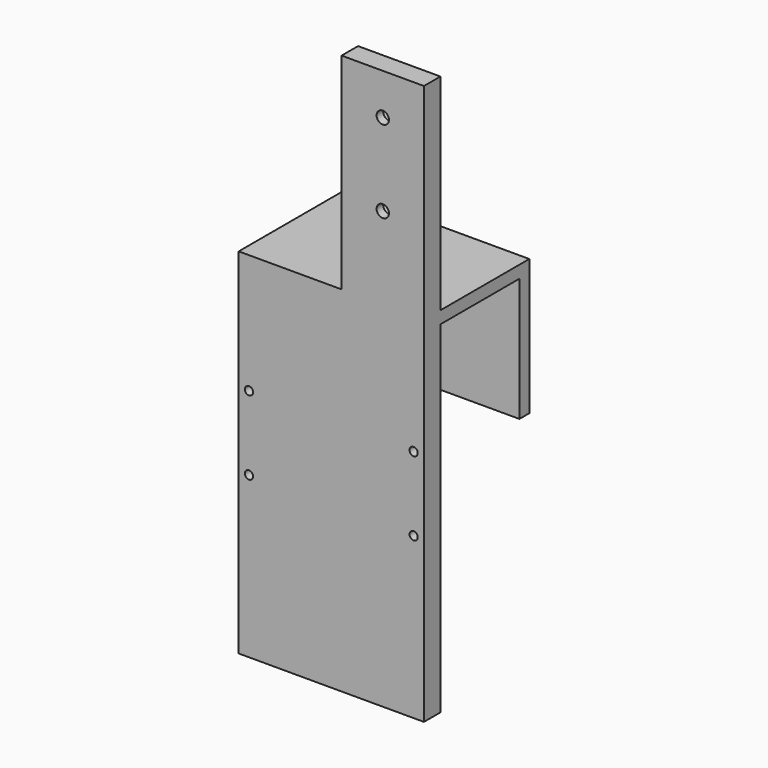
from build123d import *

# Parameters (mm, degrees)
PAD_DEPTH       = 45
SKETCH001_R     = 1
POCKET_DEPTH    = 5
SKETCH002_R     = 0.825
POCKET001_DEPTH = 10
SKETCH004_R     = 1.5
POCKET003_DEPTH = 5
SKETCH005_W     = 50
SKETCH005_H     = 25
POCKET004_DEPTH = 5
SKETCH006_R     = 2
POCKET005_DEPTH = 2
SKETCH007_R     = 3
POCKET006_DEPTH = 3


with BuildPart() as part:
    # Sketch → Pad (new body)
    with BuildSketch(Plane.YZ):
        Polygon((0, 0), (0, 83), (24, 83), (24, 53), (27, 53), (27, 86), (0, 86), (0, 136), (-5, 136), (-5, 0), align=None)
    extrude(amount=PAD_DEPTH)

    # Sketch001 (on Face1 of Pad) → Pocket (cut)
    with BuildSketch(Plane(origin=(0, -5, 0), x_dir=(0, 0, -1), z_dir=(0, -1, 0))):
        with Locations((-57, 42.5)):
            Circle(SKETCH001_R)
        with Locations((-39, 42.5)):
            Circle(SKETCH001_R)
        with Locations((-57, 2.5)):
            Circle(SKETCH001_R)
        with Locations((-39, 2.5)):
            Circle(SKETCH001_R)
    extrude(amount=-POCKET_DEPTH, mode=Mode.SUBTRACT)

    # Sketch002 (on Face5 of Pocket) → Pocket001 (cut)
    with BuildSketch(Plane.YX):
        with Locations((-2.5, 35)):
            Circle(SKETCH002_R)
        with Locations((-2.5, 10)):
            Circle(SKETCH002_R)
    extrude(amount=-POCKET001_DEPTH, mode=Mode.SUBTRACT)

    # Sketch004 → Pocket003 (cut)
    with BuildSketch(Plane(origin=(0, -5, 0), x_dir=(0, 0, -1), z_dir=(0, -1, 0))):
        with Locations((-126, 35)):
            Circle(SKETCH004_R)
        with Locations((-106, 35)):
            Circle(SKETCH004_R)
    extrude(amount=-POCKET003_DEPTH, mode=Mode.SUBTRACT)

    # Sketch005 (on Face1 of Pocket003) → Pocket004 (cut)
    with BuildSketch(Plane(origin=(0, -5, 0), x_dir=(0, 0, -1), z_dir=(0, -1, 0))):
        with Locations((-111, 12.5)):
            Rectangle(SKETCH005_W, SKETCH005_H)
    extrude(amount=-POCKET004_DEPTH, mode=Mode.SUBTRACT)

    # Sketch006 (on Face20 of Pocket004) → Pocket005 (cut)
    with BuildSketch(Plane.ZX):
        with Locations((39, 42.5)):
            Circle(SKETCH006_R)
        with Locations((57, 42.5)):
            Circle(SKETCH006_R)
        with Locations((39, 2.5)):
            Circle(SKETCH006_R)
        with Locations((57, 2.5)):
            Circle(SKETCH006_R)
    extrude(amount=-POCKET005_DEPTH, mode=Mode.SUBTRACT)

    # Sketch007 (on Face14 of Pocket005) → Pocket006 (cut)
    with BuildSketch(Plane.ZX):
        with Locations((106, 35)):
            Circle(SKETCH007_R)
        with Locations((126, 35)):
            Circle(SKETCH007_R)
    extrude(amount=-POCKET006_DEPTH, mode=Mode.SUBTRACT)


solid = part.part
